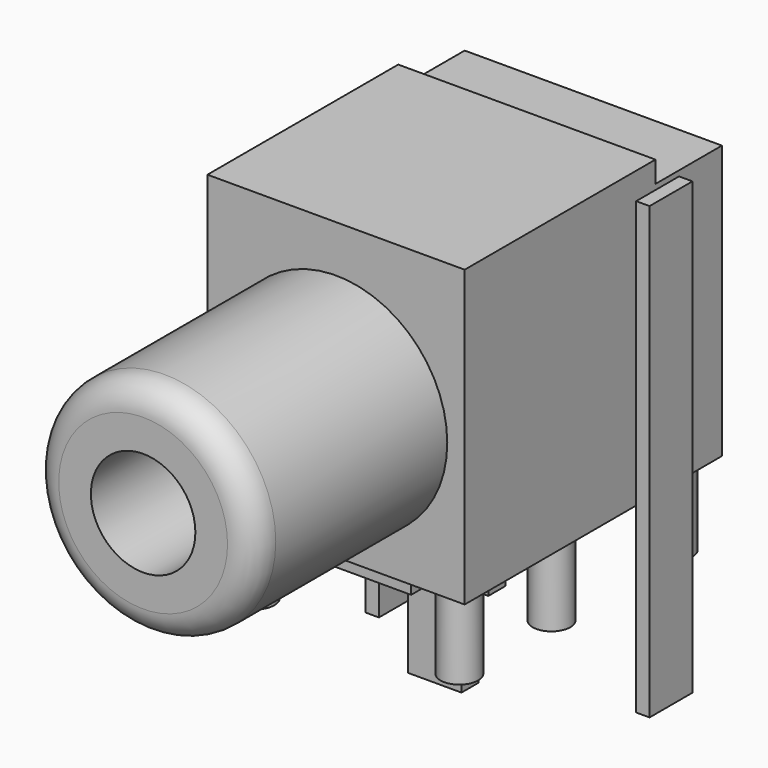
from build123d import *

# Parameters (mm, degrees)
F0_W      = 9.6
F0_H      = 11
F1_DEPTH  = 8.9
F2_W      = 9.6
F2_H      = 10.2
F3_DEPTH  = 3.1
F4_R      = 0.7
F5_DEPTH  = 3
F4_W      = 4
F4_H      = 10
F6_DEPTH  = 1
F4_W_2    = 0.5
F4_H_2    = 2
F7_DEPTH  = 10
F8_DEPTH  = 6.8
F9_W      = 4
F9_H      = 0.8
F10_DEPTH = 1.5
F11_DEPTH = 6.8
F12_R     = 4.15
F12_R_2   = 1.95
F13_DEPTH = 9
F14_R     = 1
F15_DEPTH = 12
F16_W     = 2
F16_H     = 0.8
F17_DEPTH = 3.5


with BuildPart() as f1:
    # F0 (on Front) → F1 (new body)
    with BuildSketch(Plane.XZ):
        with Locations((0, 0.4)):
            Rectangle(F0_W, F0_H)
    extrude(amount=F1_DEPTH)

    # F2 (on face) → F3 (join)
    with BuildSketch(Plane(origin=(0, 0, 0), x_dir=(-1, 0, 0), z_dir=(0, 1, 0))):
        Rectangle(F2_W, F2_H)
    extrude(amount=F3_DEPTH)

    # F4 (on face) → F5 (join)
    with BuildSketch(Plane(origin=(0, 0, -5.1), x_dir=(1, 0, 0), z_dir=(0, 0, -1))):
        with Locations((-3.8, 7.9)):
            Circle(F4_R)
        with Locations((-3.8, 3.6)):
            Circle(F4_R)
        with Locations((-3.8, -2.1)):
            Circle(F4_R)
        with Locations((3.8, -2.1)):
            Circle(F4_R)
        with Locations((3.8, 3.6)):
            Circle(F4_R)
        with Locations((3.8, 7.9)):
            Circle(F4_R)
    extrude(amount=F5_DEPTH)

    # F4 (on face) → F6 (join)
    with BuildSketch(Plane(origin=(0, 0, -5.1), x_dir=(1, 0, 0), z_dir=(0, 0, -1))):
        with Locations((0, 2.9)):
            Rectangle(F4_W, F4_H)
    extrude(amount=F6_DEPTH)

    # F12 (on face) → F15 (cut)
    with BuildSketch(Plane.XZ.offset(8.9)):
        Circle(F12_R_2)
    extrude(amount=-F15_DEPTH, mode=Mode.SUBTRACT)


with BuildPart() as f7:
    # F4 (on face) → F7 (new body)
    with BuildSketch(Plane(origin=(0, 0, -5.1), x_dir=(1, 0, 0), z_dir=(0, 0, -1))):
        with Locations((5.05, -0.1)):
            Rectangle(F4_W_2, F4_H_2)
    extrude(amount=-F7_DEPTH)

    # F4 (on face) → F11 (join)
    with BuildSketch(Plane(origin=(0, 0, -5.1), x_dir=(1, 0, 0), z_dir=(0, 0, -1))):
        with Locations((5.05, -0.1)):
            Rectangle(F4_W_2, F4_H_2)
    extrude(amount=F11_DEPTH)


with BuildPart() as f7b:
    # F4 (on face) → F7, piece 2 (new body)
    with BuildSketch(Plane(origin=(0, 0, -5.1), x_dir=(1, 0, 0), z_dir=(0, 0, -1))):
        with Locations((-5.05, -0.1)):
            Rectangle(F4_W_2, F4_H_2)
    extrude(amount=-F7_DEPTH)

    # F4 (on face) → F8 (join)
    with BuildSketch(Plane(origin=(0, 0, -5.1), x_dir=(1, 0, 0), z_dir=(0, 0, -1))):
        with Locations((-5.05, -0.1)):
            Rectangle(F4_W_2, F4_H_2)
    extrude(amount=F8_DEPTH)


with BuildPart() as f10:
    # F9 (on face) → F10 (new body)
    with BuildSketch(Plane(origin=(0, 0, -6.1), x_dir=(1, 0, 0), z_dir=(0, 0, -1))):
        with Locations((0, 3.9)):
            Rectangle(F9_W, F9_H)
    extrude(amount=F10_DEPTH)

    # F16 (on face) → F17 (join)
    with BuildSketch(Plane(origin=(0, 0, -7.6), x_dir=(1, 0, 0), z_dir=(0, 0, -1))):
        with Locations((0, 3.9)):
            Rectangle(F16_W, F16_H)
    extrude(amount=F17_DEPTH)


with BuildPart() as f13:
    # F12 (on face) → F13 (new body)
    with BuildSketch(Plane.XZ.offset(8.9)):
        Circle(F12_R)
        Circle(F12_R_2, mode=Mode.SUBTRACT)
    extrude(amount=F13_DEPTH)

    # F14
    f14_edges = [f13.edges().sort_by_distance(p)[0] for p in [
        (-4.15, -17.9, 0),
    ]]
    fillet(f14_edges, radius=F14_R)


solid = Compound([f1.part, f7.part, f7b.part, f10.part, f13.part])
